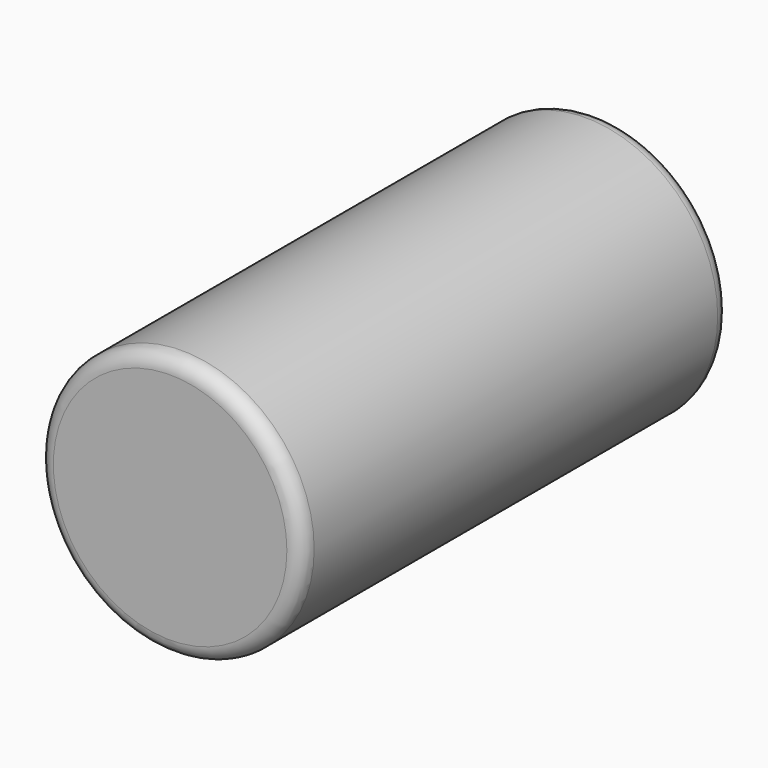
from build123d import *

# Parameters (mm, degrees)
F0_R     = 44.194839
F1_DEPTH = 179.102134
F2_R     = 5.08


with BuildPart() as f1:
    # F0 (on Front) → F1 (new body)
    with BuildSketch(Plane.XZ):
        with Locations((170.012161, 47.311887)):
            Circle(F0_R)
    extrude(amount=F1_DEPTH)

    # F2
    f2_edges = [f1.edges().sort_by_distance(p)[0] for p in [
        (214.207, -89.551067, 47.311887),
        (125.817322, 0, 47.311887),
        (125.817322, -179.102134, 47.311887),
    ]]
    fillet(f2_edges, radius=F2_R)


solid = f1.part
